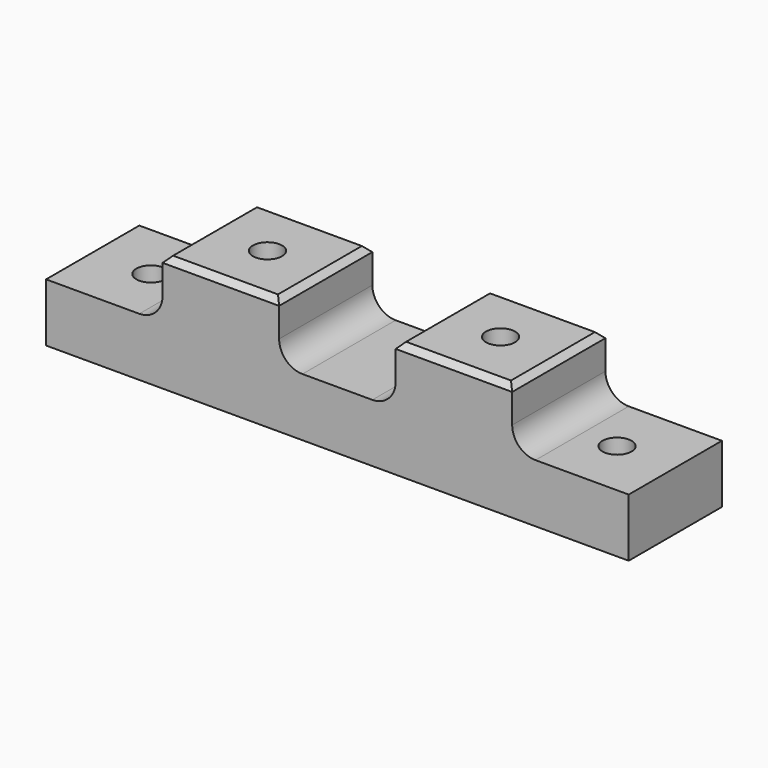
from build123d import *

# Parameters (mm, degrees)
F1_DEPTH      = 12.7
F1_DEPTH_BACK = 12.7
F2_R          = 3.175
F3_DEPTH      = 12.701
F3_DEPTH_BACK = 12.701
F4_R          = 5.08
F5_SIZE       = 1.27


with BuildPart() as f1:
    # F0 (on Front) → F1 (new body, two sides)
    with BuildSketch(Plane.XZ) as f1_sk:
        Polygon((-63.5, 12.7), (-63.5, 0), (63.5, 0), (63.5, 12.7), (38.1, 12.7), (38.1, 25.4), (12.7, 25.4), (12.7, 12.7), (-12.7, 12.7), (-12.7, 25.4), (-38.1, 25.4), (-38.1, 12.7), align=None)
    extrude(amount=F1_DEPTH)
    extrude(f1_sk.sketch, amount=-F1_DEPTH_BACK)

    # F2 (on face) → F3 (cut, two sides)
    with BuildSketch(Plane.XY.offset(12.7)) as f3_sk:
        with Locations((-50.8, 0)):
            Circle(F2_R)
        with Locations((50.8, 0)):
            Circle(F2_R)
        with Locations((-25.4, 0)):
            Circle(F2_R)
        with Locations((25.4, 0)):
            Circle(F2_R)
    extrude(amount=-F3_DEPTH, mode=Mode.SUBTRACT)
    extrude(f3_sk.sketch, amount=F3_DEPTH_BACK, mode=Mode.SUBTRACT)

    # F4
    f4_edges = [f1.edges().sort_by_distance(p)[0] for p in [
        (-38.1, 0, 12.7),
        (12.7, 0, 12.7),
        (-12.7, 0, 12.7),
        (38.1, 0, 12.7),
    ]]
    fillet(f4_edges, radius=F4_R)

    # F5
    f5_edges = [f1.edges().sort_by_distance(p)[0] for p in [
        (-25.4, -12.7, 25.4),
        (-12.7, 0, 25.4),
        (-25.4, 12.7, 25.4),
        (-38.1, 0, 25.4),
        (12.7, 0, 25.4),
        (25.4, 12.7, 25.4),
        (38.1, 0, 25.4),
        (25.4, -12.7, 25.4),
    ]]
    chamfer(f5_edges, length=F5_SIZE)


solid = f1.part
